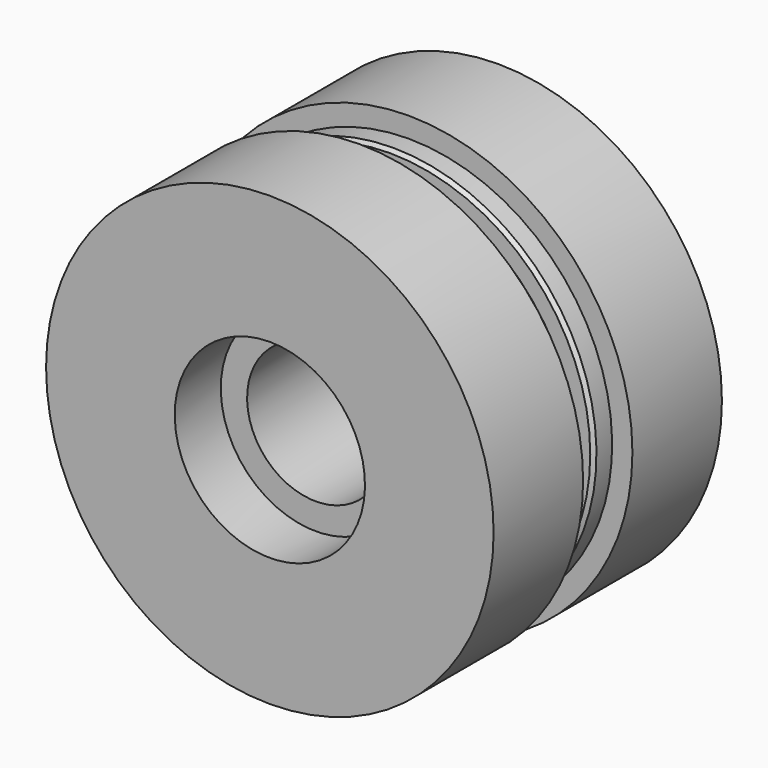
from build123d import *

# Parameters (mm, degrees)
F2_SIZE = 0.762
F3_R    = 0.254


with BuildPart() as f1:
    # F0 (on Right) → F1 (revolve)
    with BuildSketch(Plane.YZ):
        Polygon((-18.7706, 15.1765), (0, 15.1765), (18.7706, 15.1765), (18.7706, 20.9804), (31.4706, 20.9804), (31.4706, 49.3522), (6.7945, 49.3522), (6.7945, 44.8818), (1.7145, 44.8818), (1.7145, 32.1818), (-1.7145, 32.1818), (-1.7145, 44.8818), (-6.7945, 44.8818), (-6.7945, 49.3522), (-31.4706, 49.3522), (-31.4706, 20.9804), (-18.7706, 20.9804), align=None)
    revolve(axis=Axis((0, -0.984378, 0), (0, 1, 0)))

    # F2
    f2_edges = [f1.edges().sort_by_distance(p)[0] for p in [
        (0, 1.7145, -44.8818),
        (0, -1.7145, -44.8818),
    ]]
    chamfer(f2_edges, length=F2_SIZE)

    # F3
    f3_edges = [f1.edges().sort_by_distance(p)[0] for p in [
        (0, -1.7145, -32.1818),
        (0, 1.7145, -32.1818),
    ]]
    fillet(f3_edges, radius=F3_R)


solid = f1.part
